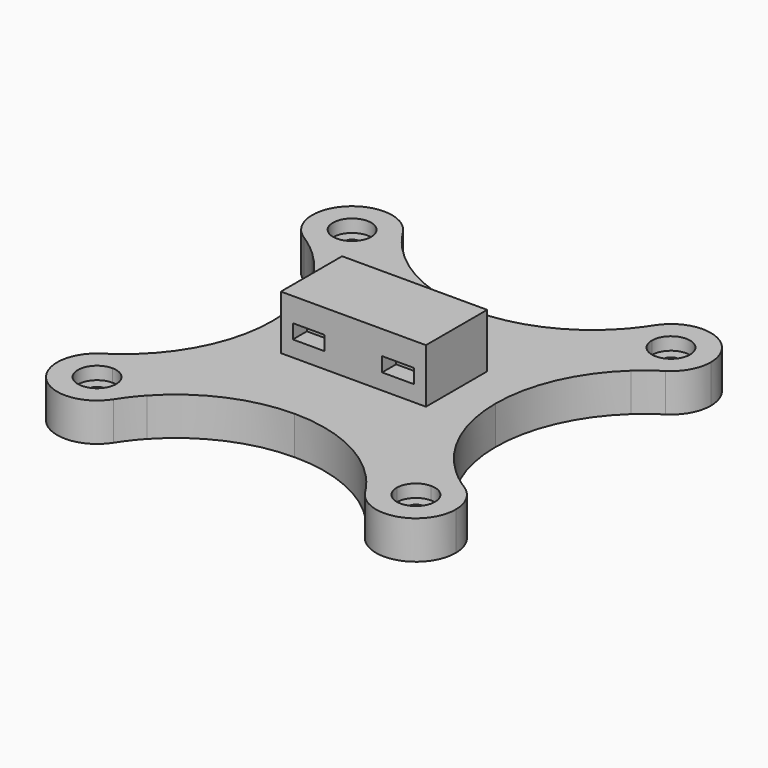
from build123d import *

# Parameters (mm, degrees)
F1_DEPTH = 12
F0_W     = 22.75
F0_H     = 12
F2_DEPTH = 29
F3_DEPTH = 8
F4_W     = 10
F4_H     = 4.5
F5_DEPTH = 5.5


with BuildPart() as f1:
    # F0 (on Top) → F1 (new body)
    with BuildSketch(Plane.XY):
        with BuildLine():
            Line((37.5, -50), (34.2948445635, -50))
            ThreePointArc((34.2948445635, -50), (37.0207144417, -53.2303243355), (39.4433779545, -56.6938577061))
            ThreePointArc((39.4433779545, -56.6938577061), (37.9956721228, -53.4851272883), (37.5, -50))
        make_face()
        with BuildLine():
            Line((-34.2948445635, -50), (-37.5, -50))
            ThreePointArc((-37.5, -50), (-37.9956721876, -53.4851275115), (-39.4433782034, -56.6938580986))
            ThreePointArc((-39.4433782034, -56.6938580986), (-37.0207145834, -53.2303245197), (-34.2948445635, -50))
        make_face()
        with BuildLine():
            ThreePointArc((-39.443378119, 56.6938579655), (-37.9956721656, 53.4851274358), (-37.5, 50))
            Line((-37.5, 50), (-34.2948445635, 50))
            ThreePointArc((-34.2948445635, 50), (-37.0207145354, 53.2303244572), (-39.443378119, 56.6938579655))
        make_face()
        with BuildLine():
            Line((50, -34.2948445635), (50, -37.5))
            ThreePointArc((50, -37.5), (53.4851274351, -37.9956721654), (56.6938579643, -39.4433781183))
            ThreePointArc((56.6938579643, -39.4433781183), (53.2303244566, -37.020714535), (50, -34.2948445635))
        make_face()
        with BuildLine():
            Line((50, 37.5), (50, 34.2948445635))
            ThreePointArc((50, 34.2948445635), (53.2303242081, 37.0207143438), (56.6938574347, 39.4433777825))
            ThreePointArc((56.6938574347, 39.4433777825), (53.485127134, 37.995672078), (50, 37.5))
        make_face()
        with BuildLine():
            ThreePointArc((-56.6938576889, -39.4433779436), (-53.4851272786, -37.9956721199), (-50, -37.5))
            Line((-50, -37.5), (-50, -34.2948445635))
            ThreePointArc((-50, -34.2948445635), (-53.2303243274, -37.0207144356), (-56.6938576889, -39.4433779436))
        make_face()
        with BuildLine():
            ThreePointArc((-56.6938579169, 39.4433780882), (-53.2303244344, 37.0207145179), (-50, 34.2948445635))
            Line((-50, 34.2948445635), (-50, 37.5))
            ThreePointArc((-50, 37.5), (-53.4851274082, 37.9956721576), (-56.6938579169, 39.4433780882))
        make_face()
        with BuildLine():
            ThreePointArc((37.5, 50), (41.1611652352, 41.1611652352), (50, 37.5))
            Line((50, 37.5), (50, 44))
            ThreePointArc((50, 44), (45.7573593129, 45.7573593129), (44, 50))
            Line((44, 50), (37.5, 50))
        make_face()
        with BuildLine():
            Line((50, 44), (50, 37.5))
            ThreePointArc((50, 37.5), (53.485127134, 37.995672078), (56.6938574347, 39.4433777825))
            ThreePointArc((56.6938574347, 39.4433777825), (60.952698707, 43.9760153525), (62.5, 50))
            ThreePointArc((62.5, 50), (53.4152371074, 62.0243983426), (39.3662151199, 56.5705874261))
            ThreePointArc((39.3662151199, 56.5705874261), (37.9756016574, 53.4152371074), (37.5, 50))
            Line((37.5, 50), (44, 50))
            ThreePointArc((44, 50), (50, 56), (56, 50))
            ThreePointArc((56, 50), (54.2426406871, 45.7573593129), (50, 44))
        make_face()
        with BuildLine():
            Line((44, -50), (37.5, -50))
            ThreePointArc((37.5, -50), (37.9956721228, -53.4851272883), (39.4433779545, -56.6938577061))
            ThreePointArc((39.4433779545, -56.6938577061), (53.4851272883, -62.0043278772), (62.5, -50))
            ThreePointArc((62.5, -50), (60.9526988581, -43.9760156272), (56.6938579643, -39.4433781183))
            ThreePointArc((56.6938579643, -39.4433781183), (53.4851274351, -37.9956721654), (50, -37.5))
            Line((50, -37.5), (50, -44))
            ThreePointArc((50, -44), (54.2426406871, -45.7573593129), (56, -50))
            ThreePointArc((56, -50), (50, -56), (44, -50))
        make_face()
        with BuildLine():
            ThreePointArc((-39.4433782034, -56.6938580986), (-37.9956721876, -53.4851275115), (-37.5, -50))
            Line((-37.5, -50), (-44, -50))
            ThreePointArc((-44, -50), (-54.2426406871, -54.2426406871), (-50, -44))
            Line((-50, -44), (-50, -37.5))
            ThreePointArc((-50, -37.5), (-53.4851272786, -37.9956721199), (-56.6938576889, -39.4433779436))
            ThreePointArc((-56.6938576889, -39.4433779436), (-58.8388349363, -58.8388345933), (-39.4433782034, -56.6938580986))
        make_face()
        with BuildLine():
            ThreePointArc((-56.6938579169, 39.4433780882), (-53.4851274082, 37.9956721576), (-50, 37.5))
            Line((-50, 37.5), (-50, 44))
            ThreePointArc((-50, 44), (-54.2426406871, 54.2426406871), (-44, 50))
            Line((-44, 50), (-37.5, 50))
            ThreePointArc((-37.5, 50), (-37.9956721656, 53.4851274358), (-39.443378119, 56.6938579655))
            ThreePointArc((-39.443378119, 56.6938579655), (-58.8388347851, 58.8388347445), (-56.6938579169, 39.4433780882))
        make_face()
        with BuildLine():
            Line((22.75, 12), (22.75, 0))
            Line((22.75, 0), (35, 0))
            ThreePointArc((35, 0), (38.9140035649, 18.7158780427), (50, 34.2948445635))
            Line((50, 34.2948445635), (50, 37.5))
            ThreePointArc((50, 37.5), (41.1611652352, 41.1611652352), (37.5, 50))
            Line((37.5, 50), (34.2948445635, 50))
            ThreePointArc((34.2948445635, 50), (18.7158780427, 38.9140035649), (0, 35))
            Line((0, 35), (0, 12))
            Line((0, 12), (22.75, 12))
        make_face()
        with BuildLine():
            ThreePointArc((0, -35), (18.7158780427, -38.9140035649), (34.2948445635, -50))
            Line((34.2948445635, -50), (37.5, -50))
            ThreePointArc((37.5, -50), (41.1611652352, -41.1611652352), (50, -37.5))
            Line((50, -37.5), (50, -34.2948445635))
            ThreePointArc((50, -34.2948445635), (38.9140035649, -18.7158780427), (35, 0))
            Line((35, 0), (22.75, 0))
            Line((22.75, 0), (22.75, -12))
            Line((22.75, -12), (0, -12))
            Line((0, -12), (0, -35))
        make_face()
        with BuildLine():
            ThreePointArc((-50, -37.5), (-41.1611652352, -41.1611652352), (-37.5, -50))
            Line((-37.5, -50), (-34.2948445635, -50))
            ThreePointArc((-34.2948445635, -50), (-18.7158780427, -38.9140035649), (0, -35))
            Line((0, -35), (0, -12))
            Line((0, -12), (-22.75, -12))
            Line((-22.75, -12), (-22.75, 0))
            Line((-22.75, 0), (-35, 0))
            ThreePointArc((-35, 0), (-38.9140035649, -18.7158780427), (-50, -34.2948445635))
            Line((-50, -34.2948445635), (-50, -37.5))
        make_face()
        with BuildLine():
            Line((-50, 37.5), (-50, 34.2948445635))
            ThreePointArc((-50, 34.2948445635), (-38.9140035649, 18.7158780427), (-35, 0))
            Line((-35, 0), (-22.75, 0))
            Line((-22.75, 0), (-22.75, 12))
            Line((-22.75, 12), (0, 12))
            Line((0, 12), (0, 35))
            ThreePointArc((0, 35), (-18.7158780427, 38.9140035649), (-34.2948445635, 50))
            Line((-34.2948445635, 50), (-37.5, 50))
            ThreePointArc((-37.5, 50), (-41.1611652352, 41.1611652352), (-50, 37.5))
        make_face()
        with BuildLine():
            Line((-44, -50), (-37.5, -50))
            ThreePointArc((-37.5, -50), (-41.1611652352, -41.1611652352), (-50, -37.5))
            Line((-50, -37.5), (-50, -44))
            ThreePointArc((-50, -44), (-45.7573593129, -45.7573593129), (-44, -50))
        make_face()
        with BuildLine():
            Line((-50, 44), (-50, 37.5))
            ThreePointArc((-50, 37.5), (-41.1611652352, 41.1611652352), (-37.5, 50))
            Line((-37.5, 50), (-44, 50))
            ThreePointArc((-44, 50), (-45.7573593129, 45.7573593129), (-50, 44))
        make_face()
        with BuildLine():
            ThreePointArc((50, -37.5), (41.1611652352, -41.1611652352), (37.5, -50))
            Line((37.5, -50), (44, -50))
            ThreePointArc((44, -50), (45.7573593129, -45.7573593129), (50, -44))
            Line((50, -44), (50, -37.5))
        make_face()
        with BuildLine():
            ThreePointArc((39.2932775844, 56.4586962355), (36.935506218, 53.1198826695), (34.2948445635, 50))
            Line((34.2948445635, 50), (37.5, 50))
            ThreePointArc((37.5, 50), (37.9756016574, 53.4152371074), (39.3662151199, 56.5705874261))
            Line((39.3662151199, 56.5705874261), (39.2932775844, 56.4586962355))
        make_face()
    extrude(amount=F1_DEPTH)

    # F0 (on Top) → F2 (join)
    with BuildSketch(Plane.XY):
        with Locations((-11.375, 6)):
            Rectangle(F0_W, F0_H)
        with Locations((11.375, 6)):
            Rectangle(F0_W, F0_H)
        with Locations((11.375, -6)):
            Rectangle(F0_W, F0_H)
        with Locations((-11.375, -6)):
            Rectangle(F0_W, F0_H)
    extrude(amount=F2_DEPTH)

    # F0 (on Top) → F3 (join)
    with BuildSketch(Plane.XY):
        with BuildLine():
            ThreePointArc((-44, 50), (-54.2426406871, 54.2426406871), (-50, 44))
            Line((-50, 44), (-50, 47.5))
            ThreePointArc((-50, 47.5), (-51.767766953, 51.767766953), (-47.5, 50))
            Line((-47.5, 50), (-44, 50))
        make_face()
        with BuildLine():
            Line((-50, 47.5), (-50, 44))
            ThreePointArc((-50, 44), (-45.7573593129, 45.7573593129), (-44, 50))
            Line((-44, 50), (-47.5, 50))
            ThreePointArc((-47.5, 50), (-48.232233047, 48.232233047), (-50, 47.5))
        make_face()
        with BuildLine():
            Line((50, 47.5), (50, 44))
            ThreePointArc((50, 44), (54.2426406871, 45.7573593129), (56, 50))
            ThreePointArc((56, 50), (50, 56), (44, 50))
            Line((44, 50), (47.5, 50))
            ThreePointArc((47.5, 50), (50, 52.5), (52.5, 50))
            ThreePointArc((52.5, 50), (51.767766953, 48.232233047), (50, 47.5))
        make_face()
        with BuildLine():
            ThreePointArc((44, 50), (45.7573593129, 45.7573593129), (50, 44))
            Line((50, 44), (50, 47.5))
            ThreePointArc((50, 47.5), (48.232233047, 48.232233047), (47.5, 50))
            Line((47.5, 50), (44, 50))
        make_face()
        with BuildLine():
            ThreePointArc((50, -44), (45.7573593129, -45.7573593129), (44, -50))
            Line((44, -50), (47.5, -50))
            ThreePointArc((47.5, -50), (48.232233047, -48.232233047), (50, -47.5))
            Line((50, -47.5), (50, -44))
        make_face()
        with BuildLine():
            Line((47.5, -50), (44, -50))
            ThreePointArc((44, -50), (50, -56), (56, -50))
            ThreePointArc((56, -50), (54.2426406871, -45.7573593129), (50, -44))
            Line((50, -44), (50, -47.5))
            ThreePointArc((50, -47.5), (51.767766953, -48.232233047), (52.5, -50))
            ThreePointArc((52.5, -50), (50, -52.5), (47.5, -50))
        make_face()
        with BuildLine():
            Line((-47.5, -50), (-44, -50))
            ThreePointArc((-44, -50), (-45.7573593129, -45.7573593129), (-50, -44))
            Line((-50, -44), (-50, -47.5))
            ThreePointArc((-50, -47.5), (-48.232233047, -48.232233047), (-47.5, -50))
        make_face()
        with BuildLine():
            ThreePointArc((-50, -44), (-54.2426406871, -54.2426406871), (-44, -50))
            Line((-44, -50), (-47.5, -50))
            ThreePointArc((-47.5, -50), (-51.767766953, -51.767766953), (-50, -47.5))
            Line((-50, -47.5), (-50, -44))
        make_face()
    extrude(amount=F3_DEPTH)

    # F4 (on face) → F5 (cut)
    with BuildSketch(Plane.XZ.offset(12)):
        with Locations((-14, 19.25)):
            Rectangle(F4_W, F4_H)
        with Locations((14, 19.25)):
            Rectangle(F4_W, F4_H)
    extrude(amount=-F5_DEPTH, mode=Mode.SUBTRACT)


solid = f1.part
